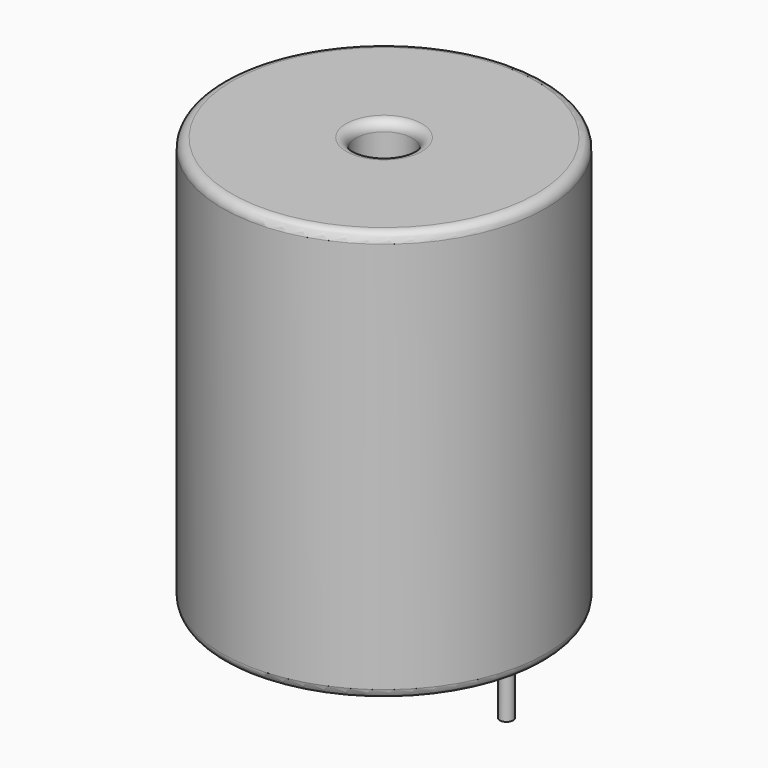
from build123d import *

# Parameters (mm, degrees)
SKETCH_R          = 8.4
SKETCH_R_2        = 1.46
PAD_DEPTH         = 21.34
FILLET_R          = 0.5
SKETCH001_R       = 0.35
PAD001_DEPTH      = 10.67
PAD001_DEPTH_BACK = 3.5


with BuildPart() as fillet_body:
    # Sketch → Pad (new body)
    with BuildSketch(Plane.XY.offset(0.1)):
        with Locations((6.35, 0)):
            Circle(SKETCH_R)
        with Locations((6.35, 0)):
            Circle(SKETCH_R_2, mode=Mode.SUBTRACT)
    extrude(amount=PAD_DEPTH)

    # Fillet
    fillet_edges = [fillet_body.edges().sort_by_distance(p)[0] for p in [
        (4.89, 0, 21.44),
        (-2.05, 0, 21.44),
        (-2.05, 0, 0.1),
    ]]
    fillet(fillet_edges, radius=FILLET_R)


with BuildPart() as obj1:
    # Sketch001 → Pad001 (new body, two sides)
    with BuildSketch(Plane.XY.offset(0.5)) as pad001_sk:
        Circle(SKETCH001_R)
        with Locations((12.7, 0)):
            Circle(SKETCH001_R)
    extrude(amount=PAD001_DEPTH)
    extrude(pad001_sk.sketch, amount=-PAD001_DEPTH_BACK)

    # obj1: union Fillet body
    add(fillet_body.part)


solid = obj1.part
